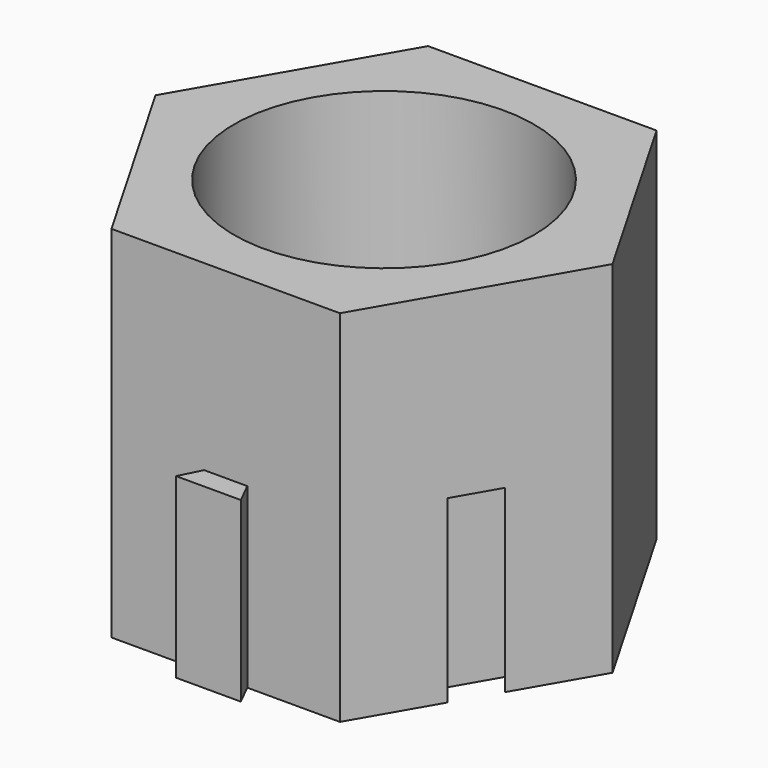
from build123d import *

# Parameters (mm, degrees)
F1_DEPTH  = 38.1
F3_DEPTH  = 18.796
F4_R      = 15.875
F5_DEPTH  = 18.796
F6_R      = 3.6195
F7_DEPTH  = 24.257
F9_DEPTH  = 18.796
F11_DEPTH = 19.05


with BuildPart() as f1:
    # F0 (on Top) → F1 (new body)
    with BuildSketch(Plane.XY):
        Polygon((-12.0983748909, -20.955), (12.0983748909, -20.955), (24.1967497817, 0), (12.0983748909, 20.955), (-12.0983748909, 20.955), (-24.1967497817, 0), align=None)
    extrude(amount=F1_DEPTH)

    # F2 (on face) → F3 (cut)
    with BuildSketch(Plane.XY.offset(38.1)):
        Polygon((-11.365140049, -19.685), (11.365140049, -19.685), (22.730280098, 0), (11.365140049, 19.685), (-11.365140049, 19.685), (-22.730280098, 0), align=None)
    extrude(amount=-F3_DEPTH, mode=Mode.SUBTRACT)

    # F4 (on face) → F5 (join)
    with BuildSketch(Plane.XY.offset(38.1)):
        Polygon((-22.730280098, 0), (-11.365140049, -19.685), (11.365140049, -19.685), (22.730280098, 0), (11.365140049, 19.685), (-11.365140049, 19.685), align=None)
        Circle(F4_R, mode=Mode.SUBTRACT)
    extrude(amount=-F5_DEPTH)

    # F6 (on face) → F7 (cut)
    with BuildSketch(Plane.XY.offset(38.1)):
        Circle(F6_R)
    extrude(amount=-F7_DEPTH, mode=Mode.SUBTRACT)

    # F8 (on face) → F9 (join)
    with BuildSketch(Plane(origin=(0, 0, 0), x_dir=(1, 0, 0), z_dir=(0, 0, -1))):
        Polygon((-2.286, 20.955), (0, 20.955), (0, 23.241), (-3.429, 23.241), align=None)
        Polygon((0, 23.241), (0, 20.955), (2.286, 20.955), (3.429, 23.241), align=None)
    extrude(amount=-F9_DEPTH)

    # F10 (on face) → F11 (cut)
    with BuildSketch(Plane(origin=(0, 0, 0), x_dir=(1, 0, 0), z_dir=(0, 0, -1))):
        Polygon((19.4175623363, 8.2777954744), (18.1475623363, 10.4775), (15.9478578107, 9.2075), (17.8528578107, 5.9079432116), align=None)
        Polygon((15.9478578107, 9.2075), (18.1475623363, 10.4775), (16.8775623363, 12.6772045256), (14.0428578107, 12.5070567884), align=None)
    extrude(amount=-F11_DEPTH, mode=Mode.SUBTRACT)


solid = f1.part
